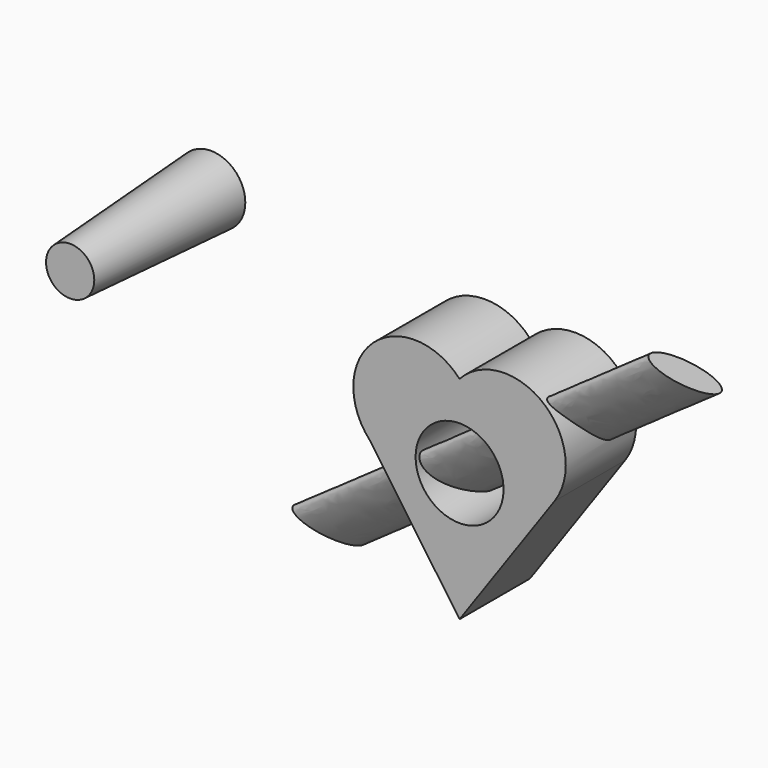
from build123d import *

# Parameters (mm, degrees)
F1_DEPTH      = 50.8
F3_D          = 50.8
F5_DEPTH      = 182.88
F5_DEPTH_BACK = 68.072
F6_R          = 19.8356426408
F8_R          = 13.9286920451


with BuildPart() as f1:
    # F0 (on Front) → F1 (new body)
    with BuildSketch(Plane.XZ):
        with BuildLine():
            ThreePointArc((54.8773473594, 3.6953619276), (48.1667786574, 51.5429346167), (-0.0151121058, 47.9474726111))
            ThreePointArc((-0.0151121058, 47.9474726111), (-49.9981441233, 49.9879972058), (-51.9131808455, 0))
            Line((-51.9131808455, 0), (0, -74.2181763053))
            Line((0, -74.2181763053), (54.8773473594, 3.6953619276))
        make_face()
    extrude(amount=F1_DEPTH)

    # F3 (through all)
    with Locations(Plane.XZ.offset(50.8)):
        with Locations((0, 0)):
            Hole(F3_D / 2)

    # F4 (on face) → F5 (join, two sides)
    with BuildSketch(Plane(origin=(-34.8585047182, 0, -24.3823811029), x_dir=(0, -1, 0), z_dir=(-0.8194369758, 0, -0.5731692967))) as f5_sk:
        with BuildLine():
            add(Edge.make_bspline(
                [(15.9323047847, -14.9699412286), (23.3585237674, -22.7965449323), (43.3109830673, 3.5716687625), (63.2634423673, 29.9398824573), (35.8847640846, 11.3982724661), (8.5060858019, -7.143337525), (15.9323047847, -14.9699412286)],
                knots=[0, 0, 0, 2.0943951024, 2.0943951024, 4.1887902048, 4.1887902048, 6.2831853072, 6.2831853072, 6.2831853072], degree=2, weights=[1, 0.5, 1, 0.5, 1, 0.5, 1]))
        make_face()
    extrude(amount=-F5_DEPTH)
    extrude(f5_sk.sketch, amount=F5_DEPTH_BACK)


with BuildPart() as f9:
    # F6 (on Front) → F9 section 0
    with BuildSketch(Plane.XZ):
        with Locations((-184.1931194067, 63.5343641043)):
            Circle(F6_R)
    # F8 (on offset) → F9 section 1
    with BuildSketch(Plane.XZ.offset(101.6)):
        with Locations((-184.2150986195, 63.4549632668)):
            Circle(F8_R)
    loft()


solid = Compound([f1.part, f9.part])
